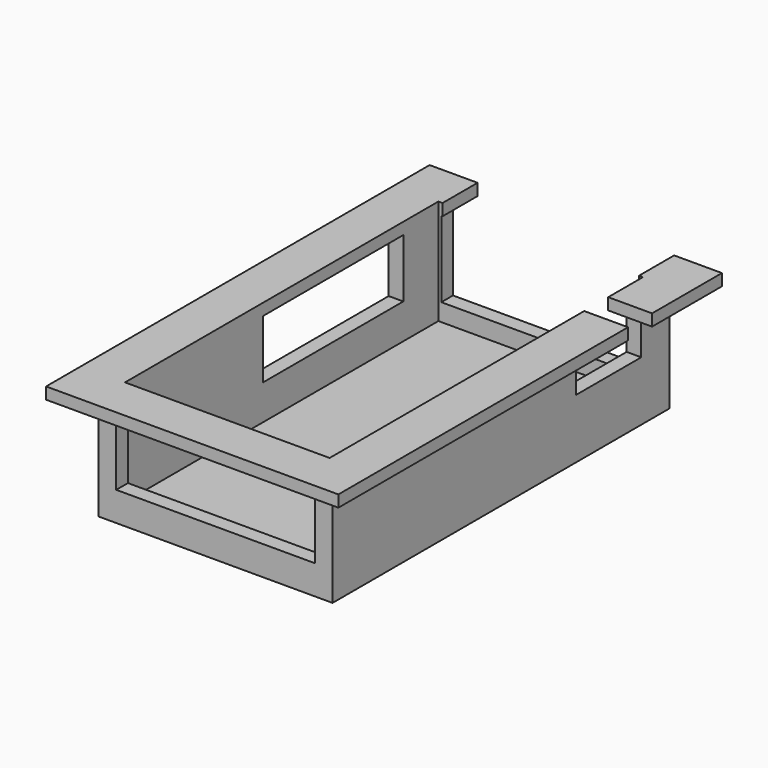
from build123d import *

# Parameters (mm, degrees)
F0_W      = 40
F0_H      = 72
F0_W_2    = 35
F0_H_2    = 67
F1_DEPTH  = 20
F0_W_3    = 50
F0_H_3    = 82
F2_DEPTH  = 2
F3_DEPTH  = 18
F4_W      = 14
F4_H      = 7.8402353459
F5_DEPTH  = 5
F6_W      = 30
F6_H      = 10
F7_DEPTH  = 5
F8_W      = 34
F8_H      = 13
F9_DEPTH  = 126.25
F10_W     = 5
F10_H     = 5.1396135241
F10_W_2   = 33.6195547134
F10_H_2   = 5
F10_H_3   = 4.6385318637
F10_W_3   = 6.1518945545
F11_DEPTH = 5


with BuildPart() as f1:
    # F0 (on Top) → F1 (new body)
    with BuildSketch(Plane.XY):
        Rectangle(F0_W, F0_H)
        Rectangle(F0_W_2, F0_H_2, mode=Mode.SUBTRACT)
        Rectangle(F0_W_2, F0_H_2)
    extrude(amount=-F1_DEPTH)

    # F0 (on Top) → F2 (join)
    with BuildSketch(Plane.XY):
        Rectangle(F0_W_3, F0_H_3)
        Rectangle(F0_W, F0_H, mode=Mode.SUBTRACT)
    extrude(amount=-F2_DEPTH)

    # F0 (on Top) → F3 (cut)
    with BuildSketch(Plane.XY):
        Rectangle(F0_W_2, F0_H_2)
    extrude(amount=-F3_DEPTH, mode=Mode.SUBTRACT)

    # F4 (on face) → F5 (cut)
    with BuildSketch(Plane.YZ.offset(20)):
        with Locations((23, -5.920117673)):
            Rectangle(F4_W, F4_H)
    extrude(amount=-F5_DEPTH, mode=Mode.SUBTRACT)

    # F6 (on face) → F7 (cut)
    with BuildSketch(Plane(origin=(-20, 0, 0), x_dir=(0, -1, 0), z_dir=(-1, 0, 0))):
        with Locations((-11, -7)):
            Rectangle(F6_W, F6_H)
    extrude(amount=-F7_DEPTH, mode=Mode.SUBTRACT)

    # F8 (on face) → F9 (cut)
    with BuildSketch(Plane(origin=(0, 36, 0), x_dir=(-1, 0, 0), z_dir=(0, 1, 0))):
        with Locations((0, -8.5)):
            Rectangle(F8_W, F8_H)
    extrude(amount=-F9_DEPTH, mode=Mode.SUBTRACT)

    # F10 (on face) → F11 (cut)
    with BuildSketch(Plane.XY):
        with Locations((22.5, 23.4971074387)):
            Rectangle(F10_W, F10_H)
        with Locations((0.0185417011, 38.5)):
            Rectangle(F10_W_2, F10_H_2)
        with Locations((0.0185417011, 33.6807340682)):
            Rectangle(F10_W_2, F10_H_3)
        with Locations((16.9240527228, 23.4971074387)):
            Rectangle(F10_W_3, F10_H)
    extrude(amount=-F11_DEPTH, mode=Mode.SUBTRACT)


solid = f1.part
